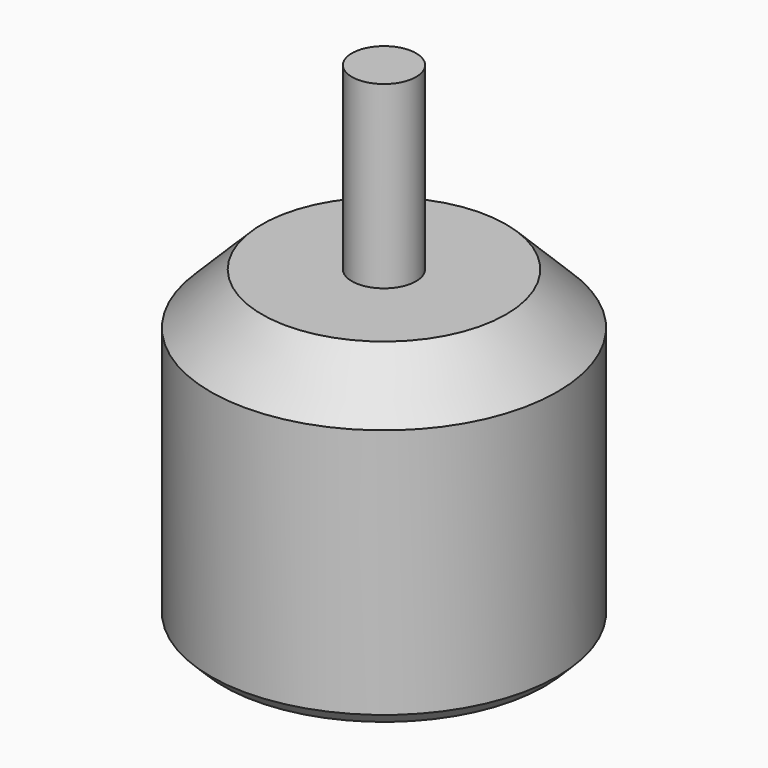
from build123d import *

# Parameters (mm, degrees)
F0_R     = 13.5
F1_DEPTH = 24.5
F2_R     = 2.5
F3_DEPTH = 14
F5_DEPTH = 5
F6_SIZE  = 1
F7_SIZE  = 4


with BuildPart() as f1:
    # F0 (on Top) → F1 (new body)
    with BuildSketch(Plane.XY):
        Circle(F0_R)
    extrude(amount=F1_DEPTH)

    # F2 (on face) → F3 (join)
    with BuildSketch(Plane.XY.offset(24.5)):
        Circle(F2_R)
    extrude(amount=F3_DEPTH)

    # F4 (on face) → F5 (cut)
    with BuildSketch(Plane(origin=(0, 0, 0), x_dir=(1, 0, 0), z_dir=(0, 0, -1))):
        with BuildLine():
            ThreePointArc((8.217514, -6.717514), (7.29154, -5.331695), (5.656854, -5.656854))
            ThreePointArc((5.656854, -5.656854), (6.143489, -8.103334), (8.217514, -6.717514))
        make_face()
        with BuildLine():
            ThreePointArc((-5.217514, 6.717514), (-8.103334, 7.29154), (-5.656854, 5.656854))
            ThreePointArc((-5.656854, 5.656854), (-5.331695, 6.143489), (-5.217514, 6.717514))
        make_face()
        with BuildLine():
            ThreePointArc((7.156854, 5.656854), (5.082829, 7.042674), (4.596194, 4.596194))
            ThreePointArc((4.596194, 4.596194), (6.230879, 4.271035), (7.156854, 5.656854))
        make_face()
        with BuildLine():
            ThreePointArc((-4.156854, -5.656854), (-4.271035, -5.082829), (-4.596194, -4.596194))
            ThreePointArc((-4.596194, -4.596194), (-7.042674, -6.230879), (-4.156854, -5.656854))
        make_face()
    extrude(amount=-F5_DEPTH, mode=Mode.SUBTRACT)

    # F6
    f6_edges = [f1.edges().sort_by_distance(p)[0] for p in [
        (-13.5, 0, 0),
    ]]
    chamfer(f6_edges, length=F6_SIZE)

    # F7
    f7_edges = [f1.edges().sort_by_distance(p)[0] for p in [
        (-13.5, 0, 24.5),
    ]]
    chamfer(f7_edges, length=F7_SIZE)


solid = f1.part
